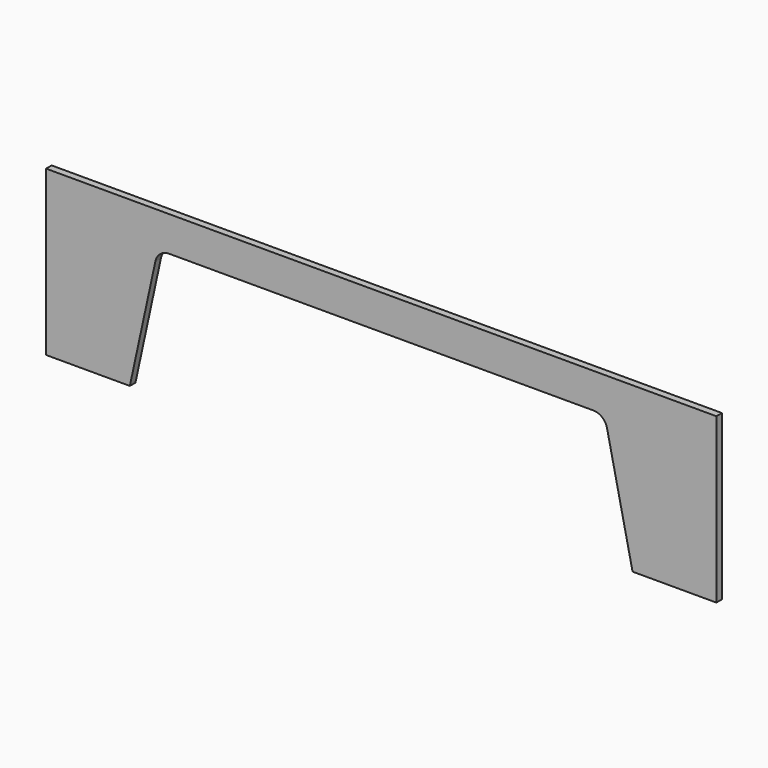
from build123d import *

# Parameters (mm, degrees)
F0_W     = 1219.2
F0_H     = 298.45
F1_DEPTH = 12.7
F3_DEPTH = 12.701


with BuildPart() as f1:
    # F0 (on Front) → F1 (new body)
    with BuildSketch(Plane.XZ):
        with Locations((609.6, 149.225)):
            Rectangle(F0_W, F0_H)
    extrude(amount=F1_DEPTH)

    # F2 (on face) → F3 (cut, through all)
    with BuildSketch(Plane.XZ.offset(12.7)):
        with BuildLine():
            Line((198.868725, 214.917853), (152.4, 0))
            Line((152.4, 0), (1066.8, 0))
            Line((1066.8, 0), (1020.331275, 214.917853))
            ThreePointArc((1020.331275, 214.917853), (1011.455136, 229.317441), (995.504955, 234.95))
            Line((995.504955, 234.95), (223.695045, 234.95))
            ThreePointArc((223.695045, 234.95), (207.744864, 229.317441), (198.868725, 214.917853))
        make_face()
    extrude(amount=-F3_DEPTH, mode=Mode.SUBTRACT)


solid = f1.part
